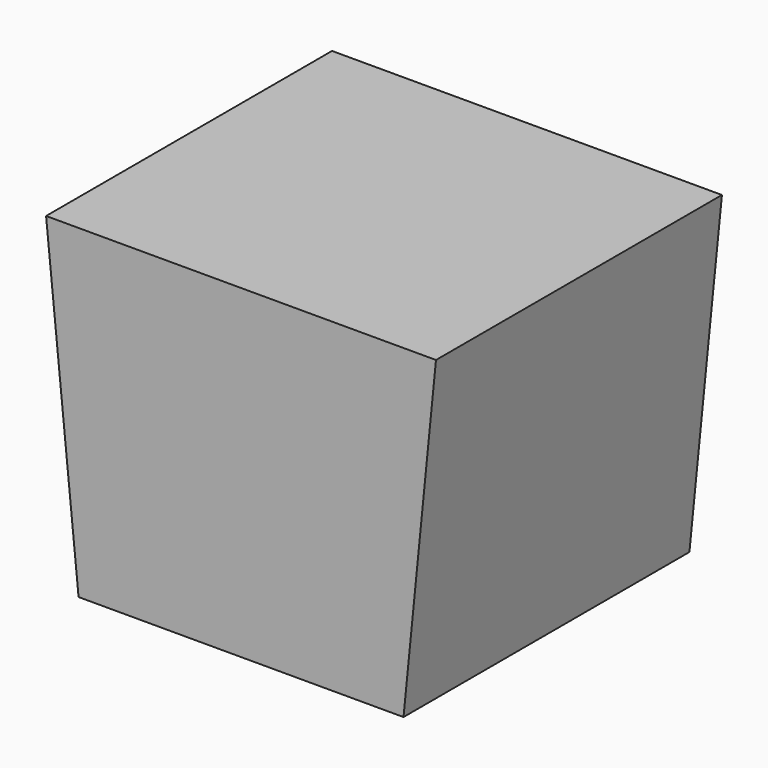
from build123d import *

# Parameters (mm, degrees)
F1_DEPTH = 225
F4_DEPTH = 25
F6_DEPTH = 25
F7_R     = 50
F8_DEPTH = 25


with BuildPart() as f1:
    # F0 (on Front) → F1 (new body)
    with BuildSketch(Plane.XZ):
        Polygon((-125, -125), (125, -125), (150, 125), (-150, 125), align=None)
        Polygon((125, 100), (100, -100), (-100, -100), (-125, 100), align=None, mode=Mode.SUBTRACT)
    extrude(amount=F1_DEPTH)

    # F3 (on face) + F2 (on face) → F4 (join)
    with BuildSketch(Plane.XZ.offset(225)):
        Polygon((125, -125), (150, 125), (-150, 125), (-125, -125), align=None)
    with BuildSketch(Plane.XZ.offset(225)):
        Polygon((-150, 125), (-125, -125), (125, -125), (150, 125), align=None)
        Polygon((-100, -100), (-125, 100), (125, 100), (100, -100), align=None, mode=Mode.SUBTRACT)
    extrude(amount=F4_DEPTH)

    # F5 (on face) → F6 (join)
    with BuildSketch(Plane(origin=(0, 0, 0), x_dir=(-1, 0, 0), z_dir=(0, 1, 0))):
        Polygon((125, -125), (150, 125), (-150, 125), (-125, -125), align=None)
    extrude(amount=F6_DEPTH)

    # F7 (on face) → F8 (cut)
    with BuildSketch(Plane(origin=(0, 0, -125), x_dir=(1, 0, 0), z_dir=(0, 0, -1))):
        with Locations((0, 110)):
            Circle(F7_R)
    extrude(amount=-F8_DEPTH, mode=Mode.SUBTRACT)


solid = f1.part
